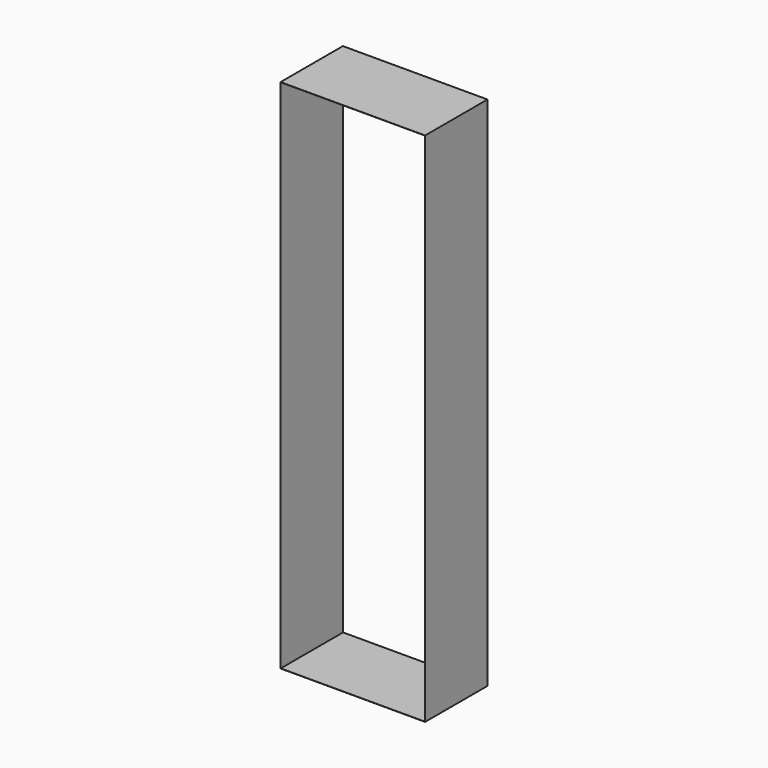
from build123d import *

# Parameters (mm, degrees)
F0_W     = 770
F0_H     = 2750
F1_DEPTH = 415
F2_T     = -1


with BuildPart() as f1:
    # F0 (on Front) → F1 (new body)
    with BuildSketch(Plane.XZ):
        with Locations((-385, 1375)):
            Rectangle(F0_W, F0_H)
    extrude(amount=F1_DEPTH)

    # F2
    f2_openings = [f1.faces().sort_by_distance(p)[0] for p in [
        (-385, -415, 1375),
        (-385, 0, 1375),
    ]]
    offset(amount=F2_T, openings=f2_openings)


solid = f1.part
